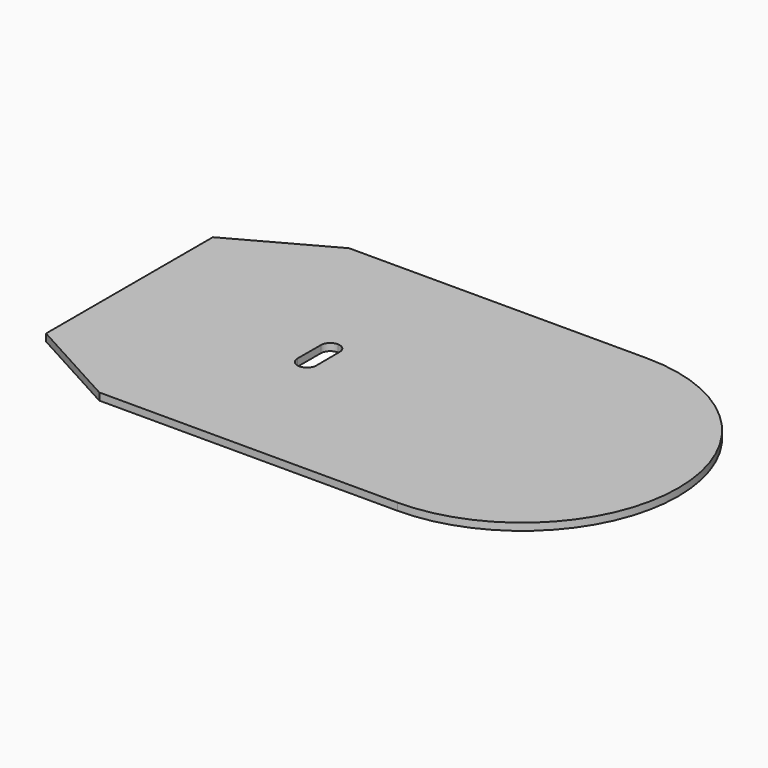
from build123d import *

# Parameters (mm, degrees)
F1_DEPTH = 0.762


with BuildPart() as f1:
    # F0 (on Top) → F1 (new body)
    with BuildSketch(Plane.XY):
        with BuildLine():
            Line((41.4909, 0), (10.0076, 0))
            Line((10.0076, 0), (1.041983, -4.915161))
            Line((1.041983, -4.915161), (0, -5.4864))
            Line((0, -5.4864), (0, -6.674694))
            Line((0, -6.674694), (0, -27.5082))
            Line((0, -27.5082), (10.0076, -32.9946))
            Line((10.0076, -32.9946), (41.4909, -32.9946))
            ThreePointArc((41.4909, -32.9946), (57.9882, -16.4973), (41.4909, 0))
        make_face()
        with BuildLine():
            Line((18.986508, -18.042571), (18.999208, -14.956523))
            ThreePointArc((18.999208, -14.956523), (19.290783, -14.2587), (19.9898, -13.97))
            ThreePointArc((19.9898, -13.97), (20.688817, -14.2587), (20.980392, -14.956523))
            Line((20.980392, -14.956523), (20.993092, -18.042571))
            ThreePointArc((20.993092, -18.042571), (20.700698, -18.754679), (19.9898, -19.05))
            ThreePointArc((19.9898, -19.05), (19.278902, -18.754679), (18.986508, -18.042571))
        make_face(mode=Mode.SUBTRACT)
    extrude(amount=F1_DEPTH)


solid = f1.part
